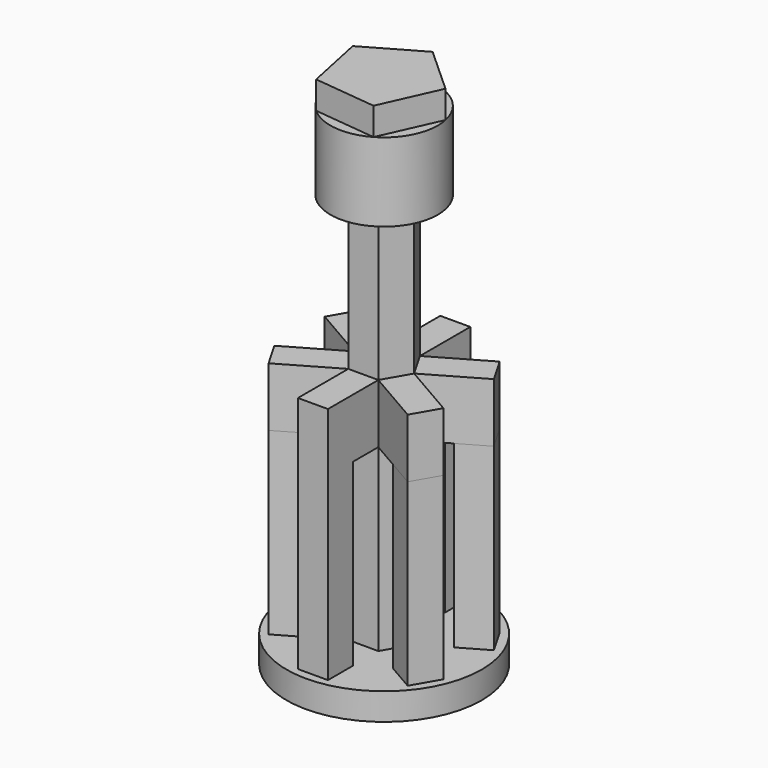
from build123d import *

# Parameters (mm, degrees)
F1_DEPTH  = 5000
F2_R      = 650.1065196221
F3_DEPTH  = 199.1913765669
F4_W      = 363.3799552917
F4_H      = 715.1050567627
F5_DEPTH  = 762
F6_W      = 363.3799552917
F6_H      = 715.1050567627
F7_DEPTH  = 762
F8_W      = 363.3799552917
F8_H      = 715.1050567627
F9_DEPTH  = 762
F10_W     = 363.3799552917
F10_H     = 715.1050567627
F11_DEPTH = 762
F12_W     = 363.3799552917
F12_H     = 715.1050567627
F13_DEPTH = 762
F14_W     = 363.3799552917
F14_H     = 715.1050567627
F15_DEPTH = 762
F16_R     = 1181.954054991
F17_DEPTH = 326.8846869469
F18_W     = 363.3799552917
F18_H     = 381
F19_DEPTH = 1809.929728508
F22_W     = 363.3799552917
F22_H     = 381
F24_DEPTH = 2253.7569999695
F25_DEPTH = 666.8158769608
F27_DEPTH = 2417.5355434418
F28_DEPTH = 751.4716386795
F30_DEPTH = 333.853572607


with BuildPart() as f1:
    # F0 (on Top) → F1 (new body)
    with BuildSketch(Plane.XY):
        Polygon((181.6899776459, -314.6962725087), (363.3799552917, 0), (181.6899776459, 314.6962725087), (-181.6899776459, 314.6962725087), (-363.3799552917, 0), (-181.6899776459, -314.6962725087), align=None)
    extrude(amount=F1_DEPTH)

    # F2 (on face) → F3 (join)
    with BuildSketch(Plane.XY.offset(5000)):
        Circle(F2_R)
    extrude(amount=F3_DEPTH)

    # F4 (on face) → F5 (join)
    with BuildSketch(Plane(origin=(272.5349664688, -157.3481362544, 0), x_dir=(0.5, 0.8660254038, 0), z_dir=(0.8660254038, -0.5, 0))):
        with Locations((0, 2857.5525283813)):
            Rectangle(F4_W, F4_H)
    extrude(amount=F5_DEPTH)

    # F6 (on face) → F7 (join)
    with BuildSketch(Plane(origin=(272.5349664688, 157.3481362544, 0), x_dir=(-0.5, 0.8660254038, 0), z_dir=(0.8660254038, 0.5, 0))):
        with Locations((0, 2857.5525283813)):
            Rectangle(F6_W, F6_H)
    extrude(amount=F7_DEPTH)

    # F8 (on face) → F9 (join)
    with BuildSketch(Plane(origin=(0, 314.6962725087, 0), x_dir=(-1, 0, 0), z_dir=(0, 1, 0))):
        with Locations((0, 2857.5525283813)):
            Rectangle(F8_W, F8_H)
    extrude(amount=F9_DEPTH)

    # F10 (on face) → F11 (join)
    with BuildSketch(Plane(origin=(-272.5349664688, 157.3481362544, 0), x_dir=(-0.5, -0.8660254038, 0), z_dir=(-0.8660254038, 0.5, 0))):
        with Locations((0, 2857.5525283813)):
            Rectangle(F10_W, F10_H)
    extrude(amount=F11_DEPTH)

    # F12 (on face) → F13 (join)
    with BuildSketch(Plane.XZ.offset(314.6962725087)):
        with Locations((0, 2857.5525283813)):
            Rectangle(F12_W, F12_H)
    extrude(amount=F13_DEPTH)

    # F14 (on face) → F15 (join)
    with BuildSketch(Plane(origin=(-272.5349664688, -157.3481362544, 0), x_dir=(0.5, -0.8660254038, 0), z_dir=(-0.8660254038, -0.5, 0))):
        with Locations((0, 2857.5525283813)):
            Rectangle(F14_W, F14_H)
    extrude(amount=F15_DEPTH)

    # F16 (on face) → F17 (join)
    with BuildSketch(Plane(origin=(0, 0, 0), x_dir=(1, 0, 0), z_dir=(0, 0, -1))):
        Circle(F16_R)
    extrude(amount=-F17_DEPTH)

    # F18 (on face) → F19 (join)
    with BuildSketch(Plane(origin=(0, 0, 2500), x_dir=(1, 0, 0), z_dir=(0, 0, -1))):
        with Locations((0, -886.1962725087)):
            Rectangle(F18_W, F18_H)
    extrude(amount=F19_DEPTH)

    # F20 (on face) + F23 (on face) + F22 (on face) + F21 (on face) → F24 (join)
    with BuildSketch(Plane(origin=(0, 0, 2500), x_dir=(1, 0, 0), z_dir=(0, 0, -1))):
        Polygon((1023.2913129755, -381), (693.3356341336, -190.5), (511.6456564877, -505.1962725087), (841.6013353296, -695.6962725087), align=None)
    with BuildSketch(Plane(origin=(0, 0, 2500), x_dir=(1, 0, 0), z_dir=(0, 0, -1))):
        Polygon((-693.3356341336, 190.5), (-511.6456564877, 505.1962725087), (-841.6013353296, 695.6962725087), (-1023.2913129755, 381), align=None)
    with BuildSketch(Plane(origin=(0, 0, 2500), x_dir=(1, 0, 0), z_dir=(0, 0, -1))):
        with Locations((0, 886.1962725087)):
            Rectangle(F22_W, F22_H)
    with BuildSketch(Plane(origin=(0, 0, 2500), x_dir=(1, 0, 0), z_dir=(0, 0, -1))):
        Polygon((841.6013353296, 695.6962725087), (511.6456564877, 505.1962725087), (693.3356341336, 190.5), (1023.2913129755, 381), align=None)
    extrude(amount=F24_DEPTH)

    # F25 (add): a face of the model
    f25_faces = [f1.faces().sort_by_distance(p)[0] for p in [
        (0, 886.1962725087, 690.070271492),
    ]]
    extrude(f25_faces, amount=F25_DEPTH)

    # F26 (on face) → F27 (join)
    with BuildSketch(Plane(origin=(0, 0, 2500), x_dir=(1, 0, 0), z_dir=(0, 0, -1))):
        Polygon((-841.6013353296, -695.6962725087), (-511.6456564877, -505.1962725087), (-693.3356341336, -190.5), (-1023.2913129755, -381), align=None)
    extrude(amount=F27_DEPTH)

    # F28 (add): a face of the model
    f28_faces = [f1.faces().sort_by_distance(p)[0] for p in [
        (0, 0, 5199.1913765669),
    ]]
    extrude(f28_faces, amount=F28_DEPTH)

    # F29 (on face) → F30 (join)
    with BuildSketch(Plane.XY.offset(5950.6630152464)):
        Polygon((69.9831587504, 646.3287432464), (-593.0691775594, 266.2845047766), (-436.5200681621, -481.755868617), (323.2849386638, -564.0260058616), (636.3211483072, 133.1686264556), align=None)
    extrude(amount=F30_DEPTH)


solid = f1.part
